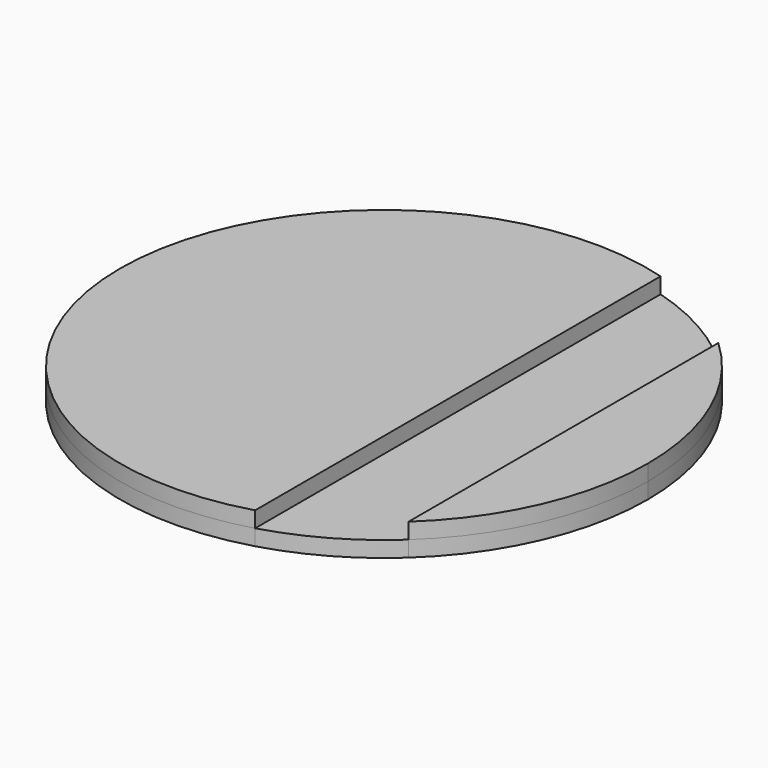
from build123d import *

# Parameters (mm, degrees)
F1_DEPTH = 1.5
F2_DEPTH = 1.5


with BuildPart() as f1:
    # F0 (on Top) → F1 (new body)
    with BuildSketch(Plane.XY):
        with BuildLine():
            Line((7, -24), (7, 24))
            ThreePointArc((7, 24), (-25, 0), (7, -24))
        make_face()
        with BuildLine():
            Line((17, -18.3303027798), (17, 18.3303027798))
            ThreePointArc((17, 18.3303027798), (12.3303027798, 21.7477270849), (7, 24))
            Line((7, 24), (7, -24))
            ThreePointArc((7, -24), (12.3303027798, -21.7477270849), (17, -18.3303027798))
        make_face()
        with BuildLine():
            ThreePointArc((17, -18.3303027798), (22.9128784748, -10), (25, 0))
            ThreePointArc((25, 0), (22.9128784748, 10), (17, 18.3303027798))
            Line((17, 18.3303027798), (17, -18.3303027798))
        make_face()
    extrude(amount=-F1_DEPTH)

    # F0 (on Top) → F2 (join)
    with BuildSketch(Plane.XY):
        with BuildLine():
            ThreePointArc((17, -18.3303027798), (22.9128784748, -10), (25, 0))
            ThreePointArc((25, 0), (22.9128784748, 10), (17, 18.3303027798))
            Line((17, 18.3303027798), (17, -18.3303027798))
        make_face()
        with BuildLine():
            Line((7, -24), (7, 24))
            ThreePointArc((7, 24), (-25, 0), (7, -24))
        make_face()
    extrude(amount=F2_DEPTH)


solid = f1.part
